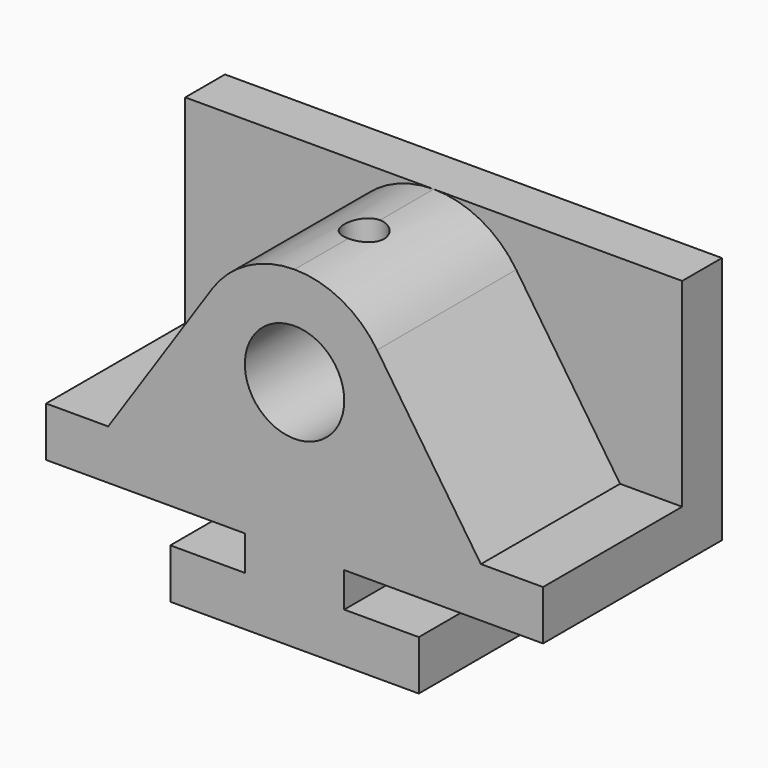
from build123d import *

# Parameters (mm, degrees)
F1_DEPTH = 57.15
F2_R     = 12.7
F3_DEPTH = 44.45
F4_R     = 5.08
F5_DEPTH = 25.4


with BuildPart() as f1:
    # F0 (on Front) → F1 (new body)
    with BuildSketch(Plane.XZ):
        with BuildLine():
            Line((0, 12.7), (0, 0))
            Line((0, 0), (63.5, 0))
            Line((63.5, 0), (63.5, 12.7))
            Line((63.5, 12.7), (44.45, 12.7))
            Line((44.45, 12.7), (44.45, 21.59))
            Line((44.45, 21.59), (95.25, 21.59))
            Line((95.25, 21.59), (95.25, 34.29))
            Line((95.25, 34.29), (79.375, 34.29))
            Line((79.375, 34.29), (52.843426, 73.840173))
            ThreePointArc((52.843426, 73.840173), (43.702941, 82.101765), (31.75, 85.09))
            ThreePointArc((31.75, 85.09), (19.797059, 82.101765), (10.656574, 73.840173))
            Line((10.656574, 73.840173), (-15.875, 34.29))
            Line((-15.875, 34.29), (-31.75, 34.29))
            Line((-31.75, 34.29), (-31.75, 21.59))
            Line((-31.75, 21.59), (19.05, 21.59))
            Line((19.05, 21.59), (19.05, 12.7))
            Line((19.05, 12.7), (0, 12.7))
        make_face()
        with BuildLine():
            Line((-31.75, 85.09), (-31.75, 34.29))
            Line((-31.75, 34.29), (-15.875, 34.29))
            Line((-15.875, 34.29), (10.656574, 73.840173))
            ThreePointArc((10.656574, 73.840173), (19.797059, 82.101765), (31.75, 85.09))
            Line((31.75, 85.09), (-31.75, 85.09))
        make_face()
        with BuildLine():
            Line((79.375, 34.29), (95.25, 34.29))
            Line((95.25, 34.29), (95.25, 85.09))
            Line((95.25, 85.09), (31.75, 85.09))
            ThreePointArc((31.75, 85.09), (43.702941, 82.101765), (52.843426, 73.840173))
            Line((52.843426, 73.840173), (79.375, 34.29))
        make_face()
    extrude(amount=F1_DEPTH)

    # F2 (on face) → F3 (cut)
    with BuildSketch(Plane.XZ.offset(57.15)):
        with Locations((31.75, 59.69)):
            Circle(F2_R)
        with BuildLine():
            Line((95.25, 85.09), (31.75, 85.09))
            ThreePointArc((31.75, 85.09), (43.702941, 82.101765), (52.843426, 73.840173))
            Line((52.843426, 73.840173), (79.375, 34.29))
            Line((79.375, 34.29), (95.25, 34.29))
            Line((95.25, 34.29), (95.25, 85.09))
        make_face()
        with BuildLine():
            Line((-31.75, 85.09), (-31.75, 34.29))
            Line((-31.75, 34.29), (-15.875, 34.29))
            Line((-15.875, 34.29), (10.656574, 73.840173))
            ThreePointArc((10.656574, 73.840173), (19.797059, 82.101765), (31.75, 85.09))
            Line((31.75, 85.09), (-31.75, 85.09))
        make_face()
    extrude(amount=-F3_DEPTH, mode=Mode.SUBTRACT)

    # F4 (on face) → F5 (cut)
    with BuildSketch(Plane.XY.offset(85.09)):
        with Locations((31.75, -34.925)):
            Circle(F4_R)
    extrude(amount=-F5_DEPTH, mode=Mode.SUBTRACT)


solid = f1.part
